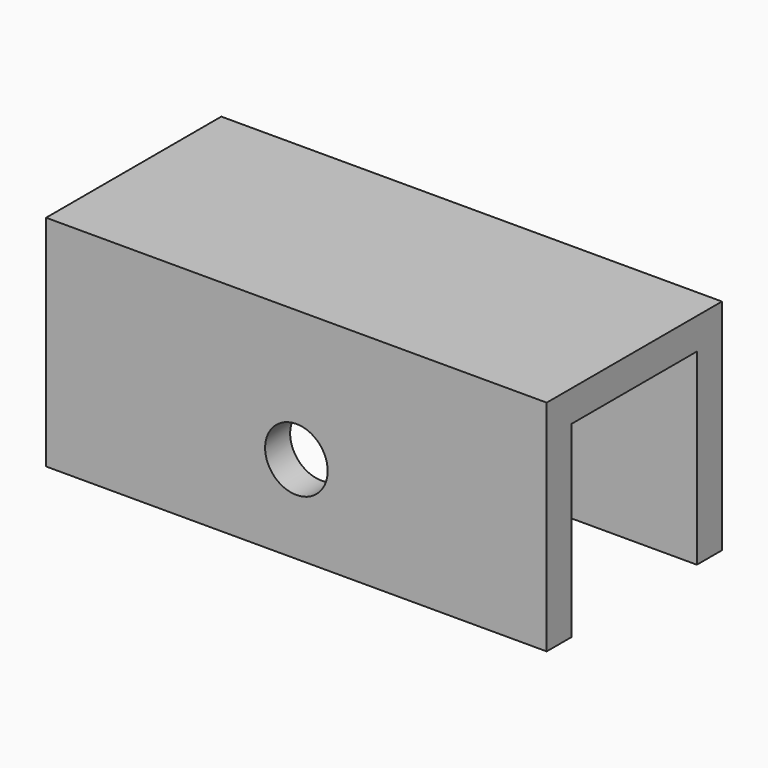
from build123d import *

# Parameters (mm, degrees)
F0_W     = 101.6
F0_H     = 44.45
F1_DEPTH = 44.45
F2_W     = 31.75
F2_H     = 38.1
F3_DEPTH = 101.601
F4_R     = 6.35
F5_DEPTH = 44.451


with BuildPart() as f1:
    # F0 (on Front) → F1 (new body)
    with BuildSketch(Plane.XZ):
        with Locations((50.8, -22.225)):
            Rectangle(F0_W, F0_H)
    extrude(amount=F1_DEPTH)

    # F2 (on face) → F3 (cut, through all)
    with BuildSketch(Plane.YZ.offset(101.6)):
        with Locations((-22.225, -25.4)):
            Rectangle(F2_W, F2_H)
    extrude(amount=-F3_DEPTH, mode=Mode.SUBTRACT)

    # F4 (on face) → F5 (cut, through all)
    with BuildSketch(Plane.XZ.offset(44.45)):
        with Locations((50.8, -26.67)):
            Circle(F4_R)
    extrude(amount=-F5_DEPTH, mode=Mode.SUBTRACT)


solid = f1.part
